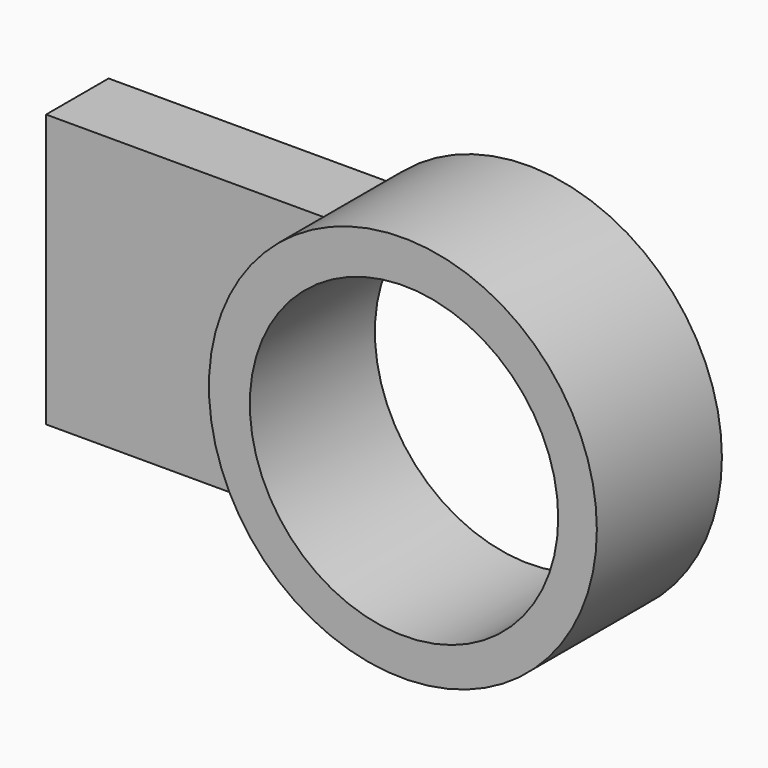
from build123d import *

# Parameters (mm, degrees)
F0_R     = 63.0332735131
F0_R_2   = 50.1119097805
F1_DEPTH = 25.4
F2_DEPTH = 25.4
F3_W     = 148.2297182083
F3_H     = 88.6540859938
F4_DEPTH = 25.4
F5_DEPTH = 25.4


with BuildPart() as f1:
    # F0 (on Front) → F1 (new body)
    with BuildSketch(Plane.XZ):
        with Locations((-0.360891223, 0.7217377424)):
            Circle(F0_R)
        Circle(F0_R_2, mode=Mode.SUBTRACT)
    extrude(amount=F1_DEPTH)

    # F2 (add): a face of the model
    f2_faces = [f1.faces().sort_by_distance(p)[0] for p in [
        (-61.6113145304, -25.4, 0.7217377424),
    ]]
    extrude(f2_faces, amount=F2_DEPTH)

    # F3 (on Front) → F4 (join)
    with BuildSketch(Plane.XZ):
        with Locations((-62.5252425671, 0)):
            Rectangle(F3_W, F3_H)
    extrude(amount=F4_DEPTH)

    # F5 (cut): a face of the model
    f5_faces = [f1.faces().sort_by_distance(p)[0] for p in [
        (-15.9361897378, -25.4, 0),
    ]]
    extrude(f5_faces, amount=-F5_DEPTH, mode=Mode.SUBTRACT)


solid = f1.part
